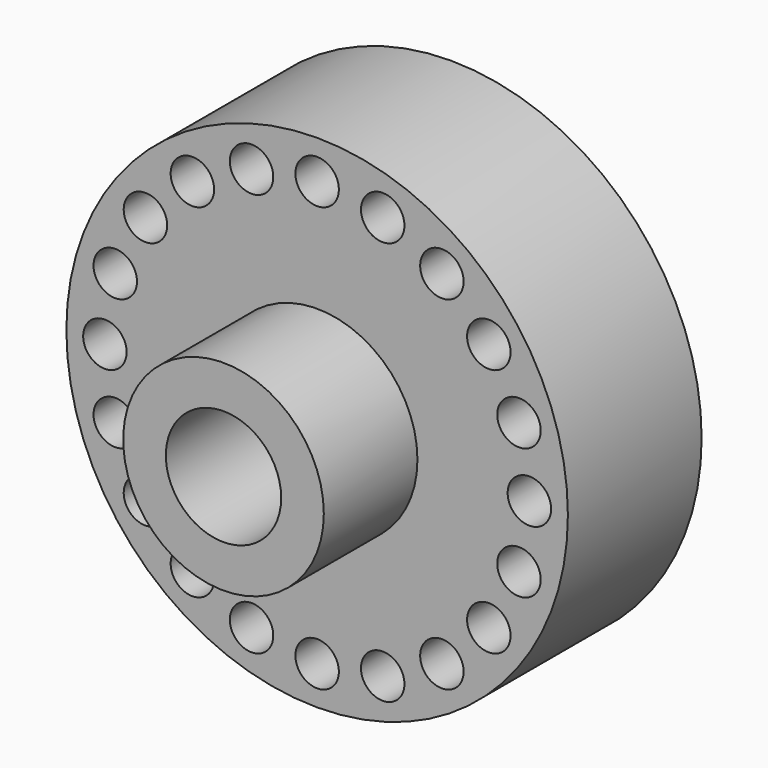
from build123d import *

# Parameters (mm, degrees)
F0_R     = 38.1
F0_R_2   = 8.763
F1_DEPTH = 25.4
F2_R     = 3.302
F3_DEPTH = 30.48
F4_R     = 15.24
F4_R_2   = 8.763
F5_DEPTH = 17.78
F6_R     = 18.082851
F6_R_2   = 8.763
F7_DEPTH = 5.08


with BuildPart() as f1:
    # F0 (on Front) → F1 (new body)
    with BuildSketch(Plane.XZ):
        Circle(F0_R)
        Circle(F0_R_2, mode=Mode.SUBTRACT)
    extrude(amount=F1_DEPTH)

    # F2 (on face) → F3 (cut)
    with BuildSketch(Plane(origin=(0, 0, 0), x_dir=(-1, 0, 0), z_dir=(0, 1, 0))):
        with Locations((0, 32.246636)):
            Circle(F2_R)
        with Locations((-9.964759, 30.668374)):
            Circle(F2_R)
        with Locations((-18.954097, 26.088077)):
            Circle(F2_R)
        with Locations((-26.088077, 18.954097)):
            Circle(F2_R)
        with Locations((-30.668374, 9.964759)):
            Circle(F2_R)
        with Locations((-32.246636, 0)):
            Circle(F2_R)
        with Locations((-30.668374, -9.964759)):
            Circle(F2_R)
        with Locations((-26.088077, -18.954097)):
            Circle(F2_R)
        with Locations((-18.954097, -26.088077)):
            Circle(F2_R)
        with Locations((-9.964759, -30.668374)):
            Circle(F2_R)
        with Locations((0, -32.246636)):
            Circle(F2_R)
        with Locations((9.964759, -30.668374)):
            Circle(F2_R)
        with Locations((18.954097, -26.088077)):
            Circle(F2_R)
        with Locations((26.088077, -18.954097)):
            Circle(F2_R)
        with Locations((30.668374, -9.964759)):
            Circle(F2_R)
        with Locations((32.246636, 0)):
            Circle(F2_R)
        with Locations((30.668374, 9.964759)):
            Circle(F2_R)
        with Locations((26.088077, 18.954097)):
            Circle(F2_R)
        with Locations((18.954097, 26.088077)):
            Circle(F2_R)
        with Locations((9.964759, 30.668374)):
            Circle(F2_R)
    extrude(amount=-F3_DEPTH, mode=Mode.SUBTRACT)

    # F4 (on face) → F5 (join)
    with BuildSketch(Plane.XZ.offset(25.4)):
        Circle(F4_R)
        Circle(F4_R_2, mode=Mode.SUBTRACT)
    extrude(amount=F5_DEPTH)

    # F6 (on face) → F7 (join)
    with BuildSketch(Plane(origin=(0, 0, 0), x_dir=(-1, 0, 0), z_dir=(0, 1, 0))):
        Circle(F6_R)
        Circle(F6_R_2, mode=Mode.SUBTRACT)
    extrude(amount=F7_DEPTH)


solid = f1.part
